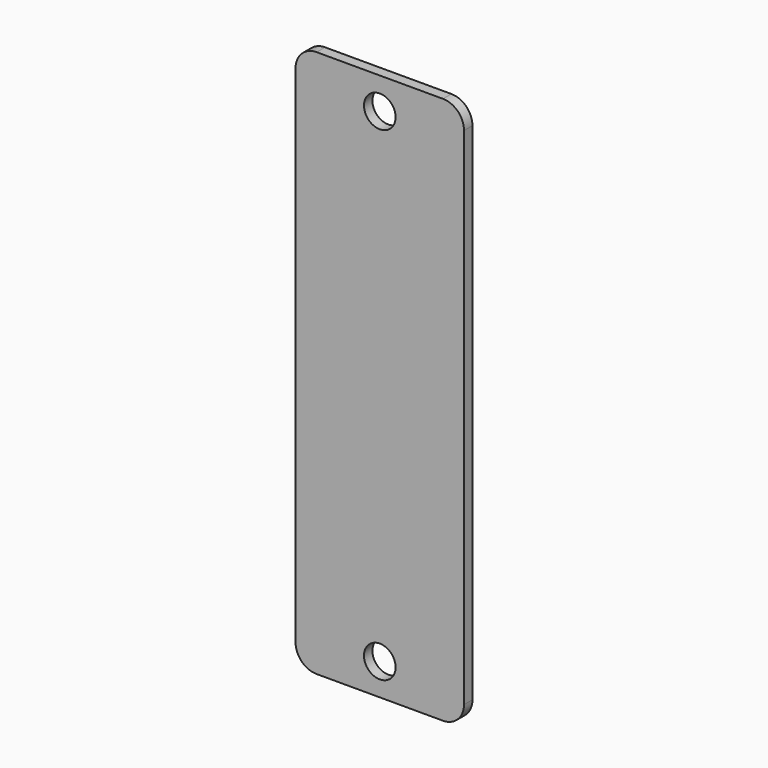
from build123d import *

# Parameters (mm, degrees)
F0_W     = 101.6
F0_H     = 330.2
F1_DEPTH = 6.35
F2_R     = 12.7
F4_D     = 19.05


with BuildPart() as f1:
    # F0 (on Front) → F1 (new body)
    with BuildSketch(Plane.XZ):
        Rectangle(F0_W, F0_H)
    extrude(amount=F1_DEPTH)

    # F2
    f2_edges = [f1.edges().sort_by_distance(p)[0] for p in [
        (50.8, -3.175, 165.1),
        (-50.8, -3.175, 165.1),
        (50.8, -3.175, -165.1),
        (-50.8, -3.175, -165.1),
    ]]
    fillet(f2_edges, radius=F2_R)

    # F4 (through all)
    with Locations(Plane(origin=(0, 0, 0), x_dir=(1, 0, 0), z_dir=(0, 1, 0))):
        with Locations((0, 146.05), (0, -146.05)):
            Hole(F4_D / 2)


solid = f1.part
